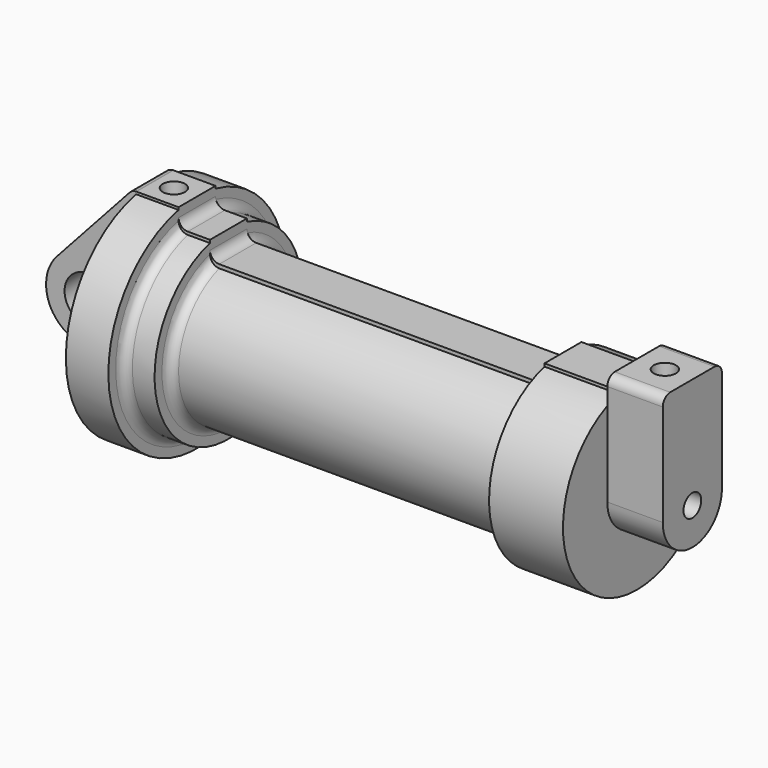
from build123d import *

# Parameters (mm, degrees)
F0_R     = 3.175
F2_DEPTH = 3.175
F3_R     = 1.524
F4_DEPTH = 7.62
F5_R     = 1.524
F6_DEPTH = 17.78
F7_R     = 1.524
F8_DEPTH = 10.414


with BuildPart() as f1:
    # F0 (on Front) → F1 (revolve)
    with BuildSketch(Plane.XZ):
        with BuildLine():
            Line((0, 15.238884), (0, 0))
            Line((0, 0), (7.112, 0))
            Line((7.112, 0), (66.294, 0))
            Line((66.294, 0), (66.294, 12.7))
            Line((66.294, 12.7), (56.134, 12.7))
            Line((56.134, 12.7), (56.134, 11.43))
            ThreePointArc((56.134, 11.43), (55.762026, 10.531974), (54.864, 10.16))
            Line((54.864, 10.16), (11.43, 10.16))
            ThreePointArc((11.43, 10.16), (10.531974, 10.531974), (10.16, 11.43))
            Line((10.16, 11.43), (10.16, 12.7))
            Line((10.16, 12.7), (7.112, 12.7))
            ThreePointArc((7.112, 12.7), (6.213974, 13.071974), (5.842, 13.97))
            Line((5.842, 13.97), (5.842, 15.24))
            Line((5.842, 15.24), (0.053232, 15.24))
            ThreePointArc((0.053232, 15.24), (0.02661, 15.239721), (0, 15.238884))
        make_face()
    revolve(axis=Axis((36.703, 0, 0), (-1, 0, 0)))

    # F0 (on Front) → F2 (join, symmetric)
    with BuildSketch(Plane.XZ):
        with BuildLine():
            Line((-0.9398, 0), (0, 0))
            Line((0, 0), (0, 15.238884))
            ThreePointArc((0, 15.238884), (-0.484346, 15.120613), (-0.885841, 14.82501))
            Line((-0.885841, 14.82501), (-10.88063, 3.847543))
            ThreePointArc((-10.88063, 3.847543), (-4.591961, 5.329721), (-0.9398, 0))
        make_face()
        with BuildLine():
            Line((0, 15.238884), (0, 0))
            Line((0, 0), (7.112, 0))
            Line((7.112, 0), (66.294, 0))
            Line((66.294, 0), (66.294, 12.7))
            Line((66.294, 12.7), (56.134, 12.7))
            Line((56.134, 12.7), (56.134, 11.43))
            ThreePointArc((56.134, 11.43), (55.762026, 10.531974), (54.864, 10.16))
            Line((54.864, 10.16), (11.43, 10.16))
            ThreePointArc((11.43, 10.16), (10.531974, 10.531974), (10.16, 11.43))
            Line((10.16, 11.43), (10.16, 12.7))
            Line((10.16, 12.7), (7.112, 12.7))
            ThreePointArc((7.112, 12.7), (6.213974, 13.071974), (5.842, 13.97))
            Line((5.842, 13.97), (5.842, 15.24))
            Line((5.842, 15.24), (0.053232, 15.24))
            ThreePointArc((0.053232, 15.24), (0.02661, 15.239721), (0, 15.238884))
        make_face()
        with BuildLine():
            Line((7.112, 0), (0, 0))
            Line((0, 0), (-0.9398, 0))
            ThreePointArc((-0.9398, 0), (-3.195791, -4.549339), (-8.182663, -5.506983))
            Line((-8.182663, -5.506983), (4.232475, -8.951452))
            ThreePointArc((4.232475, -8.951452), (5.340669, -8.738642), (5.842, -7.727678))
            Line((5.842, -7.727678), (5.842, -1.27))
            ThreePointArc((5.842, -1.27), (6.213974, -0.371974), (7.112, 0))
        make_face()
        with BuildLine():
            ThreePointArc((-8.182663, -5.506983), (-3.195791, -4.549339), (-0.9398, 0))
            ThreePointArc((-0.9398, 0), (-4.591961, 5.329721), (-10.88063, 3.847543))
            ThreePointArc((-10.88063, 3.847543), (-12.145978, -1.583727), (-8.182663, -5.506983))
        make_face()
        with Locations((-6.6548, 0)):
            Circle(F0_R, mode=Mode.SUBTRACT)
    extrude(amount=F2_DEPTH, both=True)

    # F3 (on face) → F4 (join)
    with BuildSketch(Plane.YZ.offset(66.294)):
        with BuildLine():
            ThreePointArc((-5.08, 0), (0, -5.08), (5.08, 0))
            ThreePointArc((5.08, 0), (0, 5.08), (-5.08, 0))
        make_face()
        Circle(F3_R, mode=Mode.SUBTRACT)
        with BuildLine():
            ThreePointArc((-5.08, 0), (0, 5.08), (5.08, 0))
            Line((5.08, 0), (5.08, 13.97))
            ThreePointArc((5.08, 13.97), (4.708026, 14.868026), (3.81, 15.24))
            Line((3.81, 15.24), (-3.81, 15.24))
            ThreePointArc((-3.81, 15.24), (-4.708026, 14.868026), (-5.08, 13.97))
            Line((-5.08, 13.97), (-5.08, 0))
        make_face()
    extrude(amount=F4_DEPTH)

    # F5 (on face) → F6 (cut)
    with BuildSketch(Plane.XY.offset(15.24)):
        with Locations((2.65662, 0)):
            Circle(F5_R)
    extrude(amount=-F6_DEPTH, mode=Mode.SUBTRACT)

    # F7 (on face) → F8 (cut)
    with BuildSketch(Plane.XY.offset(15.24)):
        with Locations((70.133381, 0)):
            Circle(F7_R)
    extrude(amount=-F8_DEPTH, mode=Mode.SUBTRACT)


solid = f1.part
